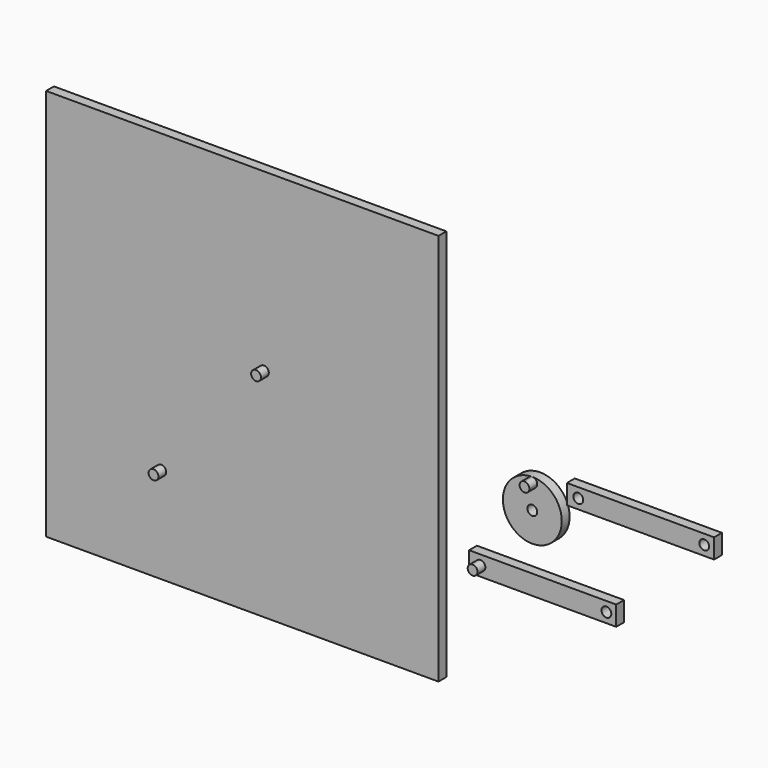
from build123d import *

# Parameters (mm, degrees)
F0_R      = 15
F0_R_2    = 2.5
F1_DEPTH  = 5
F2_W      = 200
F2_H      = 200
F2_R      = 2.5
F3_DEPTH  = 5
F4_DEPTH  = 10
F6_DEPTH  = 5
F7_W      = 75
F7_H      = 10
F7_R      = 2.5
F8_DEPTH  = 5
F9_W      = 75
F9_H      = 10
F9_R      = 2.5
F10_DEPTH = 5
F11_DEPTH = 10
F12_DEPTH = 10


with BuildPart() as f1:
    # F0 (on Front) → F1 (new body)
    with BuildSketch(Plane.XZ):
        Circle(F0_R)
        Circle(F0_R_2, mode=Mode.SUBTRACT)
    extrude(amount=F1_DEPTH)

    # F5 (on face) → F6 (join)
    with BuildSketch(Plane.XZ.offset(5)):
        with BuildLine():
            ThreePointArc((0, 15), (-1.767767, 10.732233), (2.5, 12.5))
            ThreePointArc((2.5, 12.5), (1.767767, 14.267767), (0, 15))
        make_face()
    extrude(amount=F6_DEPTH)


with BuildPart() as f3:
    # F2 (on Front) → F3 (new body)
    with BuildSketch(Plane.XZ):
        with Locations((-147.824606, 7.574737)):
            Rectangle(F2_W, F2_H)
        with Locations((-189.080819, -43.522123)):
            Circle(F2_R, mode=Mode.SUBTRACT)
        with Locations((-136.808515, 17.985249)):
            Circle(F2_R, mode=Mode.SUBTRACT)
    extrude(amount=F3_DEPTH)

    # F2 (on Front) → F4 (join)
    with BuildSketch(Plane.XZ):
        with Locations((-189.080819, -43.522123)):
            Circle(F2_R)
    extrude(amount=F4_DEPTH)

    # F2 (on Front) → F12 (join)
    with BuildSketch(Plane.XZ):
        with Locations((-136.808515, 17.985249)):
            Circle(F2_R)
    extrude(amount=F12_DEPTH)


with BuildPart() as f8:
    # F7 (on Front) → F8 (new body)
    with BuildSketch(Plane.XZ):
        with Locations((55.12644, 13.002621)):
            Rectangle(F7_W, F7_H)
        with Locations((23.441806, 13.002621)):
            Circle(F7_R, mode=Mode.SUBTRACT)
        with Locations((87.62644, 12.988698)):
            Circle(F7_R, mode=Mode.SUBTRACT)
    extrude(amount=F8_DEPTH)


with BuildPart() as f10:
    # F9 (on Front) → F10 (new body)
    with BuildSketch(Plane.XZ):
        with Locations((5.240662, -33.392145)):
            Rectangle(F9_W, F9_H)
        with Locations((-26.443972, -33.392145)):
            Circle(F9_R, mode=Mode.SUBTRACT)
        with Locations((37.740662, -33.392145)):
            Circle(F9_R, mode=Mode.SUBTRACT)
    extrude(amount=F10_DEPTH)

    # F9 (on Front) → F11 (join)
    with BuildSketch(Plane.XZ):
        with Locations((-26.443972, -33.392145)):
            Circle(F9_R)
    extrude(amount=F11_DEPTH)


solid = Compound([f1.part, f3.part, f8.part, f10.part])
